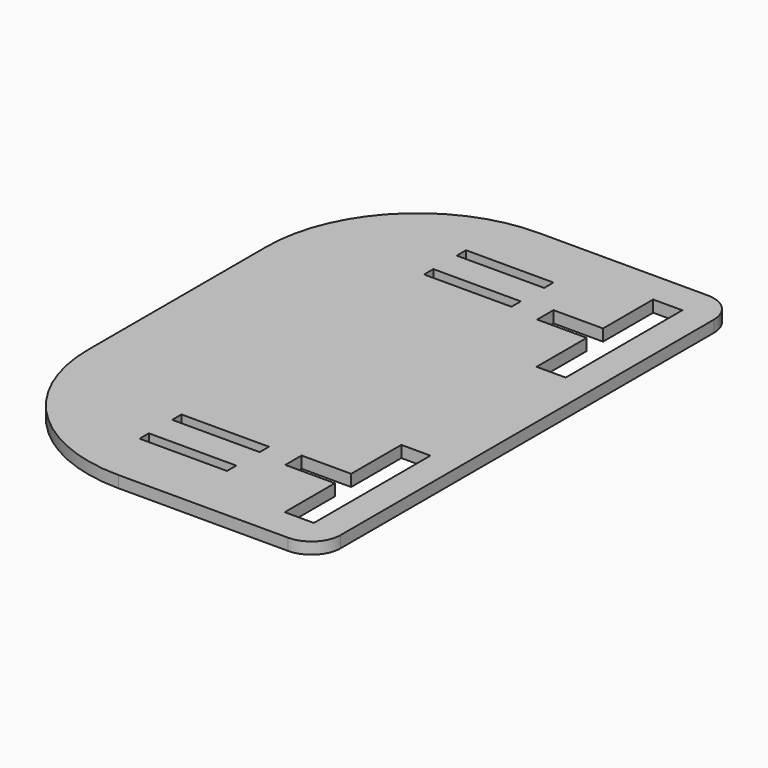
from build123d import *

# Parameters (mm, degrees)
SKETCH001_W = 30
SKETCH001_H = 4
PAD_DEPTH   = 4


with BuildPart() as part:
    # Sketch001 → Pad (new body)
    with BuildSketch(Plane.XY):
        with BuildLine():
            Line((0, 90), (0, 128.269605))
            ThreePointArc((51.730395, 180), (15.151482, 164.848518), (0, 128.269605))
            Line((51.730395, 180), (110, 180))
            ThreePointArc((120, 170), (117.071068, 177.071068), (110, 180))
            Line((120, 170), (120, 10))
            ThreePointArc((110, 0), (117.071068, 2.928932), (120, 10))
            Line((110, 0), (51.730395, 0))
            ThreePointArc((0, 51.730395), (15.151482, 15.151482), (51.730395, 0))
            Line((0, 51.730395), (0, 90))
        make_face()
        Polygon((100, 61), (100, 39.5), (83, 39.5), (83, 32.5), (100, 32.5), (100, 11), (110, 11), (110, 61), align=None, mode=Mode.SUBTRACT)
        Polygon((100, 119), (110, 119), (110, 169), (100, 169), (100, 147.5), (83, 147.5), (83, 140.5), (100, 140.5), align=None, mode=Mode.SUBTRACT)
        Polygon((73, 38), (43, 38), (43, 34), (73, 34), (73, 36), align=None, mode=Mode.SUBTRACT)
        Polygon((73, 144), (73, 146), (43, 146), (43, 142), (73, 142), align=None, mode=Mode.SUBTRACT)
        with Locations((58, 158)):
            Rectangle(SKETCH001_W, SKETCH001_H, mode=Mode.SUBTRACT)
        with Locations((58, 22)):
            Rectangle(SKETCH001_W, SKETCH001_H, mode=Mode.SUBTRACT)
    extrude(amount=PAD_DEPTH)


solid = part.part
